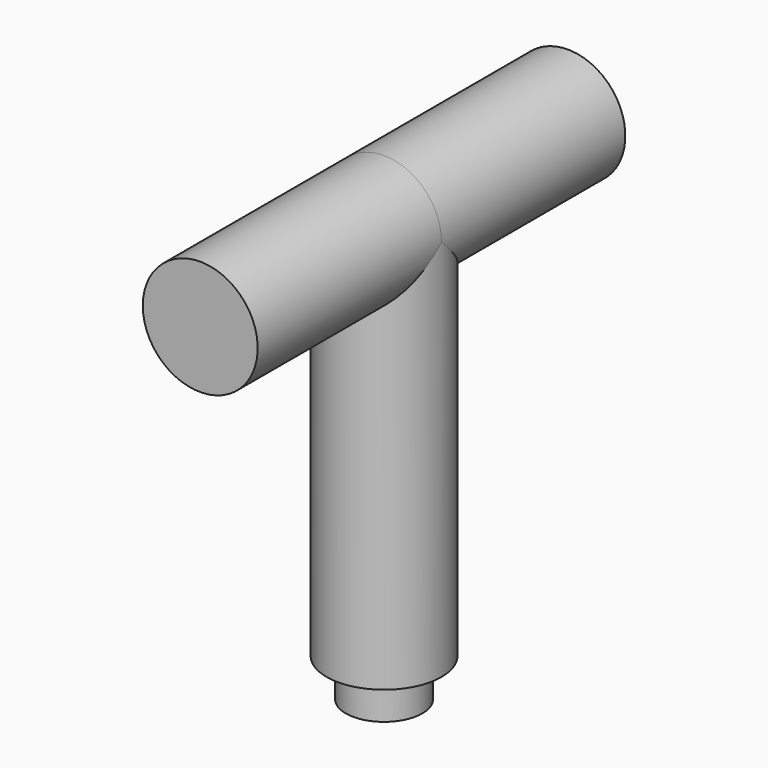
from build123d import *

# Parameters (mm, degrees)
F0_R          = 19.05
F1_DEPTH      = 127
F2_R          = 12.7
F3_DEPTH      = 12.7
F6_R          = 19.05
F7_DEPTH      = 76.2
F7_DEPTH_BACK = 76.2


with BuildPart() as f1:
    # F0 (on Top) → F1 (new body)
    with BuildSketch(Plane.XY):
        Circle(F0_R)
    extrude(amount=F1_DEPTH)

    # F2 (on face) → F3 (join)
    with BuildSketch(Plane(origin=(0, 0, 0), x_dir=(1, 0, 0), z_dir=(0, 0, -1))):
        Circle(F2_R)
    extrude(amount=F3_DEPTH)

    # F6 (on face) → F7 (join, two sides)
    with BuildSketch(Plane(origin=(0, 0, 0), x_dir=(-1, 0, 0), z_dir=(0, 1, 0))) as f7_sk:
        with Locations((0, 127)):
            Circle(F6_R)
    extrude(amount=F7_DEPTH)
    extrude(f7_sk.sketch, amount=-F7_DEPTH_BACK)


solid = f1.part
